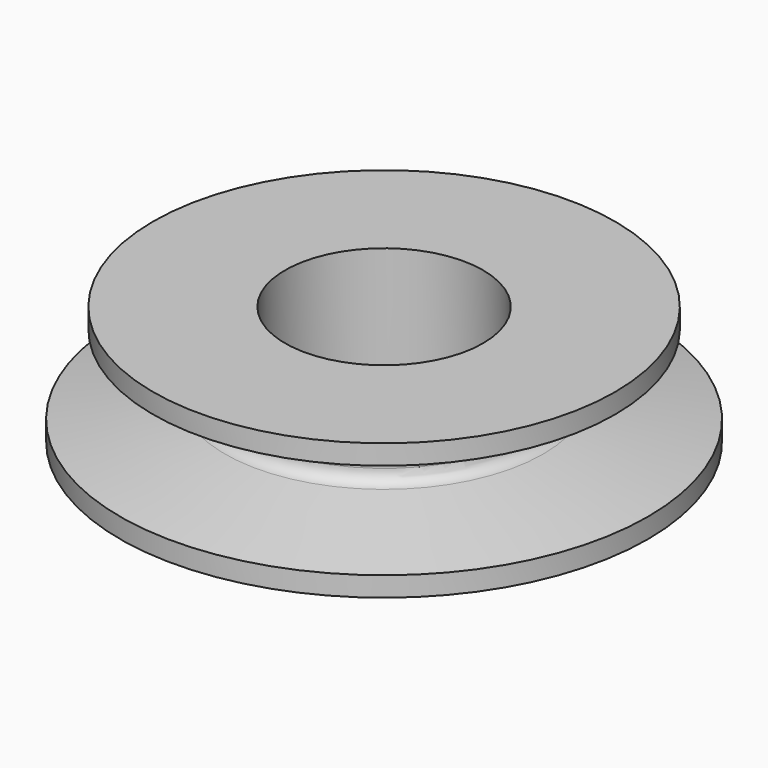
from build123d import *


with BuildPart() as f1:
    # F0 (on Front) → F1 (revolve)
    with BuildSketch(Plane.XZ):
        with BuildLine():
            Line((3, 3.6), (3, 0))
            Line((3, 0), (8, 0))
            Line((8, 0), (8, 0.6))
            Line((8, 0.6), (4.821554, 1.235689))
            ThreePointArc((4.821554, 1.235689), (4.590663, 1.374326), (4.5, 1.627922))
            Line((4.5, 1.627922), (4.5, 1.996616))
            ThreePointArc((4.5, 1.996616), (4.581299, 2.238338), (4.792148, 2.381801))
            Line((4.792148, 2.381801), (7, 3))
            Line((7, 3), (7, 3.6))
            Line((7, 3.6), (3, 3.6))
        make_face()
    revolve(axis=Axis((0, 0, 0.328301), (0, 0, -1)))


solid = f1.part
